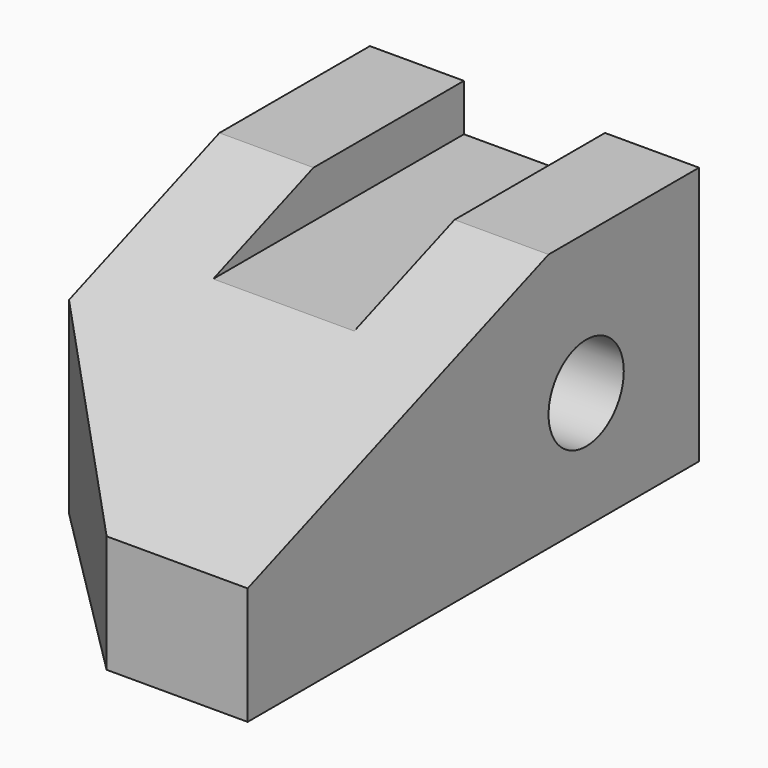
from build123d import *

# Parameters (mm, degrees)
F0_R     = 12.7
F1_DEPTH = 88.9
F2_W     = 38.1
F2_H     = 12.7
F3_DEPTH = 101.6
F4_DEPTH = 50.8
F6_DEPTH = 50.801
F8_DEPTH = 88.901


with BuildPart() as f1:
    # F0 (on Right) → F1 (new body)
    with BuildSketch(Plane.YZ):
        Polygon((-101.6, 0), (0, 0), (0, 69.85), (-50.8, 69.85), (-101.6, 50.8), align=None)
        with Locations((-38.1, 31.75)):
            Circle(F0_R, mode=Mode.SUBTRACT)
    extrude(amount=F1_DEPTH)

    # F2 (on face) → F3 (cut)
    with BuildSketch(Plane(origin=(0, 0, 0), x_dir=(-1, 0, 0), z_dir=(0, 1, 0))):
        with Locations((-44.45, 63.5)):
            Rectangle(F2_W, F2_H)
    extrude(amount=-F3_DEPTH, mode=Mode.SUBTRACT)

    # F4 (add): a face of the model
    f4_faces = [f1.faces().sort_by_distance(p)[0] for p in [
        (44.45, -101.6, 25.4),
    ]]
    extrude(f4_faces, amount=F4_DEPTH)

    # F5 (on face) → F6 (cut, through all)
    with BuildSketch(Plane.XY.offset(50.8)):
        Polygon((0, -152.4), (50.8, -152.4), (0, -101.6), align=None)
    extrude(amount=-F6_DEPTH, mode=Mode.SUBTRACT)

    # F7 (on face) → F8 (cut, through all)
    with BuildSketch(Plane.YZ.offset(88.9)):
        Polygon((-152.4, 31.75), (-101.6, 50.8), (-152.4, 50.8), align=None)
    extrude(amount=-F8_DEPTH, mode=Mode.SUBTRACT)


solid = f1.part
